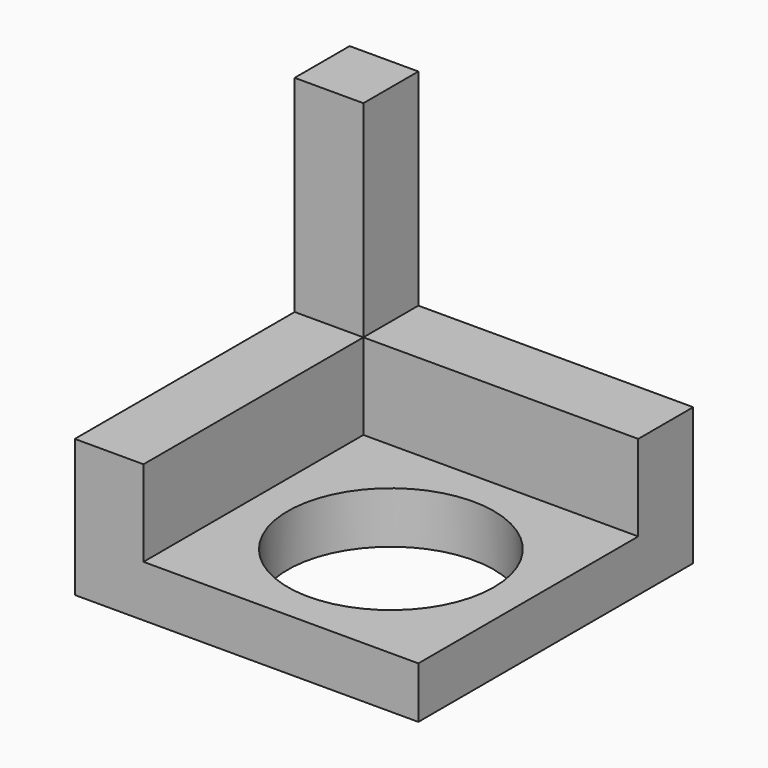
from build123d import *

# Parameters (mm, degrees)
F0_W     = 100
F0_H     = 100
F1_DEPTH = 15
F3_DEPTH = 25
F4_R     = 30
F5_DEPTH = 15.001
F6_W     = 20
F6_H     = 20
F7_DEPTH = 60


with BuildPart() as f1:
    # F0 (on Top) → F1 (new body)
    with BuildSketch(Plane.XY):
        Rectangle(F0_W, F0_H)
    extrude(amount=F1_DEPTH)

    # F2 (on face) → F3 (join)
    with BuildSketch(Plane.XY.offset(15)):
        Polygon((-30, 30), (50, 30), (50, 50), (-50, 50), (-50, -50), (-30, -50), align=None)
    extrude(amount=F3_DEPTH)

    # F4 (on face) → F5 (cut, through all)
    with BuildSketch(Plane.XY.offset(15)):
        with Locations((10, -10)):
            Circle(F4_R)
    extrude(amount=-F5_DEPTH, mode=Mode.SUBTRACT)

    # F6 (on face) → F7 (join)
    with BuildSketch(Plane.XY.offset(40)):
        with Locations((-40, 40)):
            Rectangle(F6_W, F6_H)
    extrude(amount=F7_DEPTH)


solid = f1.part
